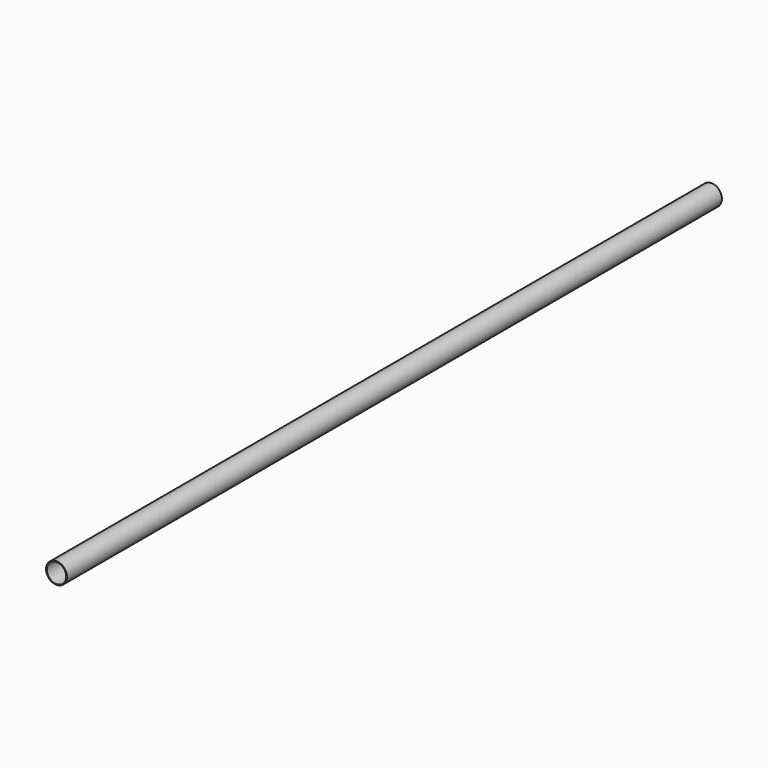
from build123d import *

# Parameters (mm, degrees)
F0_R     = 25.5
F0_R_2   = 23.85
F1_DEPTH = 1000
F2_DEPTH = 500
F3_DEPTH = 300
F4_DEPTH = 100
F5_DEPTH = 2000


with BuildPart() as f1:
    # F0 (on Front) → F1 (new body)
    with BuildSketch(Plane.XZ):
        Circle(F0_R)
        Circle(F0_R_2, mode=Mode.SUBTRACT)
    extrude(amount=F1_DEPTH)


with BuildPart() as f2:
    # F0 (on Front) → F2 (new body)
    with BuildSketch(Plane.XZ):
        Circle(F0_R)
        Circle(F0_R_2, mode=Mode.SUBTRACT)
    extrude(amount=F2_DEPTH)


with BuildPart() as f3:
    # F0 (on Front) → F3 (new body)
    with BuildSketch(Plane.XZ):
        Circle(F0_R)
        Circle(F0_R_2, mode=Mode.SUBTRACT)
    extrude(amount=F3_DEPTH)


with BuildPart() as f4:
    # F0 (on Front) → F4 (new body)
    with BuildSketch(Plane.XZ):
        Circle(F0_R)
        Circle(F0_R_2, mode=Mode.SUBTRACT)
    extrude(amount=F4_DEPTH)


with BuildPart() as f5:
    # F0 (on Front) → F5 (new body)
    with BuildSketch(Plane.XZ):
        Circle(F0_R)
        Circle(F0_R_2, mode=Mode.SUBTRACT)
    extrude(amount=F5_DEPTH)


solid = Compound([f1.part, f2.part, f3.part, f4.part, f5.part])
